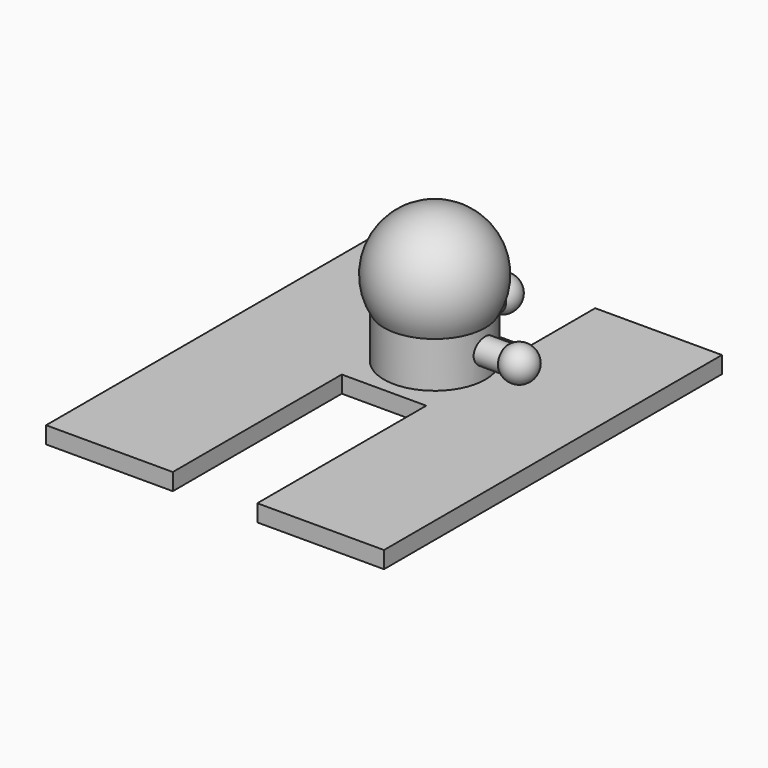
from build123d import *

# Parameters (mm, degrees)
F1_DEPTH  = 2
F2_R      = 6
F3_DEPTH  = 7.5
F7_START  = 5
F6_R      = 1.5
F7_DEPTH  = 5
F11_START = -5
F10_R     = 1.5
F11_DEPTH = 5


with BuildPart() as f1:
    # F0 (on Top) → F1 (new body)
    with BuildSketch(Plane.XY):
        Polygon((-5, 17.5), (-20, 17.5), (-20, -32.5), (-5, -32.5), (-5, -7.5), (5, -7.5), (5, -32.5), (20, -32.5), (20, 17.5), (5, 17.5), (5, 7.5), (-5, 7.5), align=None)
    extrude(amount=F1_DEPTH)

    # F2 (on face) → F3 (join)
    with BuildSketch(Plane.XY.offset(2)):
        Circle(F2_R)
    extrude(amount=F3_DEPTH)

    # F4 (on Front) → F5 (revolve)
    with BuildSketch(Plane.XZ):
        with BuildLine():
            Line((0, 4), (0, 18))
            ThreePointArc((0, 18), (-7, 11), (0, 4))
        make_face()
    revolve(axis=Axis((0, 0, 11), (0, 0, -1)))

    # F6 (on Right) → F7 (join)
    with BuildSketch(Plane.YZ.offset(F7_START)):
        with Locations((0, 5)):
            Circle(F6_R)
    extrude(amount=F7_DEPTH)

    # F8 (on face) → F9 (revolve)
    with BuildSketch(Plane.YZ.offset(10)):
        with BuildLine():
            Line((0, 3.5), (0, 3))
            ThreePointArc((0, 3), (2, 5), (0, 7))
            Line((0, 7), (0, 6.5))
            ThreePointArc((0, 6.5), (1.0606601718, 6.0606601718), (1.5, 5))
            ThreePointArc((1.5, 5), (1.0606601718, 3.9393398282), (0, 3.5))
        make_face()
    revolve(axis=Axis((10, 0, 5), (0, 0, 1)))

    # F10 (on Front) → F11 (join)
    with BuildSketch(Plane.XZ.offset(F11_START)):
        with Locations((0, 5)):
            Circle(F10_R)
    extrude(amount=-F11_DEPTH)

    # F12 (on face) → F13 (revolve)
    with BuildSketch(Plane(origin=(0, 10, 0), x_dir=(-1, 0, 0), z_dir=(0, 1, 0))):
        with BuildLine():
            ThreePointArc((0, 3), (2, 5), (0, 7))
            Line((0, 7), (0, 6.5))
            ThreePointArc((0, 6.5), (1.0606601718, 6.0606601718), (1.5, 5))
            ThreePointArc((1.5, 5), (1.0606601718, 3.9393398282), (0, 3.5))
            Line((0, 3.5), (0, 3))
        make_face()
        with BuildLine():
            ThreePointArc((1.5, 5), (1.0606601718, 6.0606601718), (0, 6.5))
            Line((0, 6.5), (0, 3.5))
            ThreePointArc((0, 3.5), (1.0606601718, 3.9393398282), (1.5, 5))
        make_face()
    revolve(axis=Axis((0, 10, 5), (0, 0, -1)))


solid = f1.part
